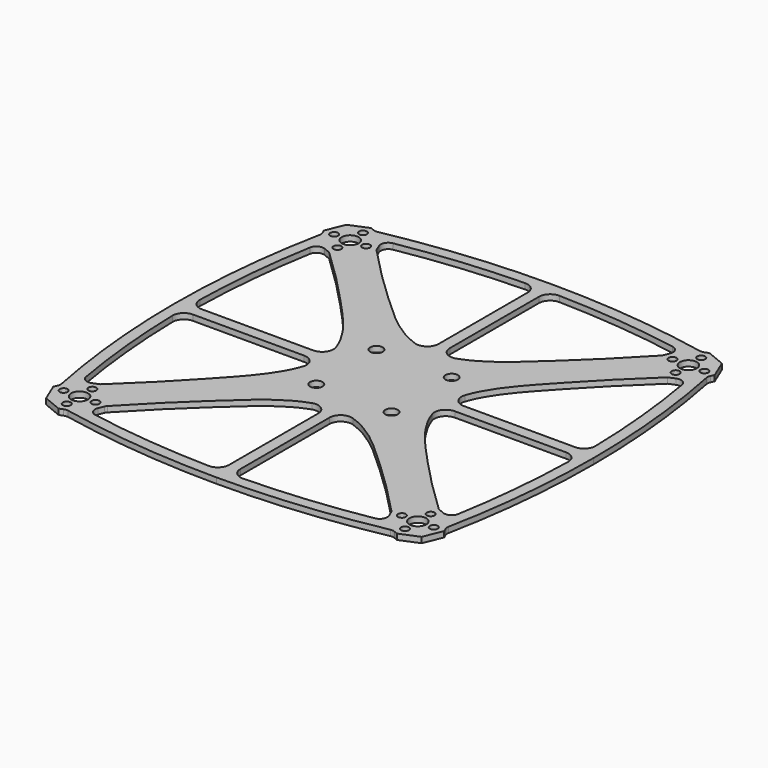
from build123d import *

# Parameters (mm, degrees)
F1_R     = 1.05
F1_R_2   = 2.25
F1_R_3   = 1.65
F2_DEPTH = 1.5


with BuildPart() as f2:
    # F1 (on Top) → F2 (new body)
    with BuildSketch(Plane.XY):
        with BuildLine():
            Line((51.5931862803, 44.0178648006), (52, 45))
            Line((52, 45), (49.9497474683, 49.9497474683))
            Line((49.9497474683, 49.9497474683), (45, 52))
            Line((45, 52), (44.0178648006, 51.5931862803))
            ThreePointArc((44.0178648006, 51.5931862803), (43.4487952644, 51.4506018175), (42.8628357923, 51.4792717196))
            ThreePointArc((42.8628357923, 51.4792717196), (21.5348352376, 54.6386607383), (0, 55.6951728897))
            ThreePointArc((0, 55.6951728897), (-21.5348352376, 54.6386607383), (-42.8628357923, 51.4792717196))
            ThreePointArc((-42.8628357923, 51.4792717196), (-43.4487952644, 51.4506018175), (-44.0178648006, 51.5931862803))
            Line((-44.0178648006, 51.5931862803), (-45, 52))
            Line((-45, 52), (-49.9497474683, 49.9497474683))
            Line((-49.9497474683, 49.9497474683), (-52, 45))
            Line((-52, 45), (-51.5931862803, 44.0178648006))
            ThreePointArc((-51.5931862803, 44.0178648006), (-51.4506018175, 43.4487952644), (-51.4792717196, 42.8628357923))
            ThreePointArc((-51.4792717196, 42.8628357923), (-54.6386607383, 21.5348352376), (-55.6951728897, 0))
            ThreePointArc((-55.6951728897, 0), (-54.6386607383, -21.5348352376), (-51.4792717196, -42.8628357923))
            ThreePointArc((-51.4792717196, -42.8628357923), (-51.4506018175, -43.4487952644), (-51.5931862803, -44.0178648006))
            Line((-51.5931862803, -44.0178648006), (-52, -45))
            Line((-52, -45), (-49.9497474683, -49.9497474683))
            Line((-49.9497474683, -49.9497474683), (-45, -52))
            Line((-45, -52), (-44.0178648006, -51.5931862803))
            ThreePointArc((-44.0178648006, -51.5931862803), (-43.4487952644, -51.4506018175), (-42.8628357923, -51.4792717196))
            ThreePointArc((-42.8628357923, -51.4792717196), (-21.5348352376, -54.6386607383), (0, -55.6951728897))
            ThreePointArc((0, -55.6951728897), (21.5348352376, -54.6386607383), (42.8628357923, -51.4792717196))
            ThreePointArc((42.8628357923, -51.4792717196), (43.4487952644, -51.4506018175), (44.0178648006, -51.5931862803))
            Line((44.0178648006, -51.5931862803), (45, -52))
            Line((45, -52), (49.9497474683, -49.9497474683))
            Line((49.9497474683, -49.9497474683), (52, -45))
            Line((52, -45), (51.5931862803, -44.0178648006))
            ThreePointArc((51.5931862803, -44.0178648006), (51.4506018175, -43.4487952644), (51.4792717196, -42.8628357923))
            ThreePointArc((51.4792717196, -42.8628357923), (54.6386607383, -21.5348352376), (55.6951728897, 0))
            ThreePointArc((55.6951728897, 0), (54.6386607383, 21.5348352376), (51.4792717196, 42.8628357923))
            ThreePointArc((51.4792717196, 42.8628357923), (51.4506018175, 43.4487952644), (51.5931862803, 44.0178648006))
        make_face()
        with Locations((-45, -49.25)):
            Circle(F1_R, mode=Mode.SUBTRACT)
        with Locations((-49.25, -45)):
            Circle(F1_R, mode=Mode.SUBTRACT)
        with Locations((-45, -45)):
            Circle(F1_R_2, mode=Mode.SUBTRACT)
        with Locations((-40.75, -45)):
            Circle(F1_R, mode=Mode.SUBTRACT)
        with Locations((-45, -40.75)):
            Circle(F1_R, mode=Mode.SUBTRACT)
        with BuildLine():
            add(Edge.make_bspline(
                [(-37.7501436414, -44.7334547058), (-30.9149768782, -37.4490160405), (-22.1028205581, -29.0955583152), (-10.986774474, -19.0602008315), (-5.4640145291, -17.186135228)],
                knots=[0.0061566979, 0.0061566979, 0.0061566979, 0.0061566979, 0.513007449, 0.8835682626, 0.8835682626, 0.8835682626, 0.8835682626], degree=3))
            ThreePointArc((-5.4640145291, -17.186135228), (-2.7524364943, -17.5885821528), (-1.5, -20.0270287472))
            Line((-1.5, -20.0270287472), (-1.5, -49.6478545742))
            ThreePointArc((-1.5, -49.6478545742), (-2.4011017576, -51.7913624861), (-4.5630841121, -52.6471912334))
            ThreePointArc((-4.5630841121, -52.6471912334), (-20.9503164586, -51.6814785674), (-37.2176574236, -49.479751323))
            ThreePointArc((-37.2176574236, -49.479751323), (-38.6270458842, -48.4732667207), (-38.7223966045, -46.7440196801))
            Line((-38.7223966045, -46.7440196801), (-38.139428394, -45.3366099198))
            ThreePointArc((-38.139428394, -45.3366099198), (-37.9720692337, -45.0174233463), (-37.7501436414, -44.7334547058))
        make_face(mode=Mode.SUBTRACT)
        with BuildLine():
            Line((-45, -38), (-46.7440196801, -38.7223966045))
            ThreePointArc((-46.7440196801, -38.7223966045), (-48.4732667207, -38.6270458842), (-49.479751323, -37.2176574236))
            ThreePointArc((-49.479751323, -37.2176574236), (-51.6814785674, -20.9503164586), (-52.6471912334, -4.5630841121))
            ThreePointArc((-52.6471912334, -4.5630841121), (-51.7913624861, -2.4011017576), (-49.6478545742, -1.5))
            Line((-49.6478545742, -1.5), (-20.0270287472, -1.5))
            ThreePointArc((-20.0270287472, -1.5), (-17.5885821528, -2.7524364943), (-17.186135228, -5.4640145291))
            add(Edge.make_bspline(
                [(-45, -38), (-37.5661637686, -31.038531254), (-29.1659752855, -22.1808205983), (-19.0602008315, -10.986774474), (-17.186135228, -5.4640145291)],
                knots=[0, 0, 0, 0, 0.513007449, 0.8835682626, 0.8835682626, 0.8835682626, 0.8835682626], degree=3))
        make_face(mode=Mode.SUBTRACT)
        with Locations((-10, -10)):
            Circle(F1_R_3, mode=Mode.SUBTRACT)
        with BuildLine():
            add(Edge.make_bspline(
                [(37.7501436414, -44.7334547058), (30.9149768782, -37.4490160405), (22.1028205581, -29.0955583152), (10.986774474, -19.0602008315), (5.4640145291, -17.186135228)],
                knots=[0.0061566979, 0.0061566979, 0.0061566979, 0.0061566979, 0.513007449, 0.8835682626, 0.8835682626, 0.8835682626, 0.8835682626], degree=3))
            ThreePointArc((37.7501436414, -44.7334547058), (37.9720692337, -45.0174233463), (38.139428394, -45.3366099198))
            Line((38.139428394, -45.3366099198), (38.7223966045, -46.7440196801))
            ThreePointArc((38.7223966045, -46.7440196801), (38.6270458842, -48.4732667207), (37.2176574236, -49.479751323))
            ThreePointArc((37.2176574236, -49.479751323), (20.9503164586, -51.6814785674), (4.5630841121, -52.6471912334))
            ThreePointArc((4.5630841121, -52.6471912334), (2.4011017576, -51.7913624861), (1.5, -49.6478545742))
            Line((1.5, -49.6478545742), (1.5, -20.0270287472))
            ThreePointArc((1.5, -20.0270287472), (2.7524364943, -17.5885821528), (5.4640145291, -17.186135228))
        make_face(mode=Mode.SUBTRACT)
        with Locations((40.75, -45)):
            Circle(F1_R, mode=Mode.SUBTRACT)
        with Locations((45, -49.25)):
            Circle(F1_R, mode=Mode.SUBTRACT)
        with Locations((45, -45)):
            Circle(F1_R_2, mode=Mode.SUBTRACT)
        with Locations((49.25, -45)):
            Circle(F1_R, mode=Mode.SUBTRACT)
        with Locations((45, -40.75)):
            Circle(F1_R, mode=Mode.SUBTRACT)
        with Locations((10, -10)):
            Circle(F1_R_3, mode=Mode.SUBTRACT)
        with BuildLine():
            add(Edge.make_bspline(
                [(45, -38), (37.5661637686, -31.038531254), (29.1659752855, -22.1808205983), (19.0602008315, -10.986774474), (17.186135228, -5.4640145291)],
                knots=[0, 0, 0, 0, 0.513007449, 0.8835682626, 0.8835682626, 0.8835682626, 0.8835682626], degree=3))
            ThreePointArc((17.186135228, -5.4640145291), (17.5885821528, -2.7524364943), (20.0270287472, -1.5))
            Line((20.0270287472, -1.5), (49.6478545742, -1.5))
            ThreePointArc((49.6478545742, -1.5), (51.7913624861, -2.4011017576), (52.6471912334, -4.5630841121))
            ThreePointArc((52.6471912334, -4.5630841121), (51.6814785674, -20.9503164586), (49.479751323, -37.2176574236))
            ThreePointArc((49.479751323, -37.2176574236), (48.4732667207, -38.6270458842), (46.7440196801, -38.7223966045))
            Line((46.7440196801, -38.7223966045), (45, -38))
        make_face(mode=Mode.SUBTRACT)
        with BuildLine():
            add(Edge.make_bspline(
                [(-45, 38), (-37.5661637686, 31.038531254), (-29.1659752855, 22.1808205983), (-19.0602008315, 10.986774474), (-17.186135228, 5.4640145291)],
                knots=[0, 0, 0, 0, 0.513007449, 0.8835682626, 0.8835682626, 0.8835682626, 0.8835682626], degree=3))
            ThreePointArc((-17.186135228, 5.4640145291), (-17.5885821528, 2.7524364943), (-20.0270287472, 1.5))
            Line((-20.0270287472, 1.5), (-49.6478545742, 1.5))
            ThreePointArc((-49.6478545742, 1.5), (-51.7913624861, 2.4011017576), (-52.6471912334, 4.5630841121))
            ThreePointArc((-52.6471912334, 4.5630841121), (-51.6814785674, 20.9503164586), (-49.479751323, 37.2176574236))
            ThreePointArc((-49.479751323, 37.2176574236), (-48.4732667207, 38.6270458842), (-46.7440196801, 38.7223966045))
            Line((-46.7440196801, 38.7223966045), (-45, 38))
        make_face(mode=Mode.SUBTRACT)
        with Locations((-10, 10)):
            Circle(F1_R_3, mode=Mode.SUBTRACT)
        with Locations((-45, 40.75)):
            Circle(F1_R, mode=Mode.SUBTRACT)
        with Locations((-49.25, 45)):
            Circle(F1_R, mode=Mode.SUBTRACT)
        with Locations((-45, 45)):
            Circle(F1_R_2, mode=Mode.SUBTRACT)
        with Locations((-45, 49.25)):
            Circle(F1_R, mode=Mode.SUBTRACT)
        with Locations((-40.75, 45)):
            Circle(F1_R, mode=Mode.SUBTRACT)
        with BuildLine():
            ThreePointArc((-1.5, 20.0270287472), (-2.7524364943, 17.5885821528), (-5.4640145291, 17.186135228))
            add(Edge.make_bspline(
                [(-37.7501436414, 44.7334547058), (-30.9149768782, 37.4490160405), (-22.1028205581, 29.0955583152), (-10.986774474, 19.0602008315), (-5.4640145291, 17.186135228)],
                knots=[0.0061566979, 0.0061566979, 0.0061566979, 0.0061566979, 0.513007449, 0.8835682626, 0.8835682626, 0.8835682626, 0.8835682626], degree=3))
            ThreePointArc((-37.7501436414, 44.7334547058), (-37.9720692337, 45.0174233463), (-38.139428394, 45.3366099198))
            Line((-38.139428394, 45.3366099198), (-38.7223966045, 46.7440196801))
            ThreePointArc((-38.7223966045, 46.7440196801), (-38.6270458842, 48.4732667207), (-37.2176574236, 49.479751323))
            ThreePointArc((-37.2176574236, 49.479751323), (-20.9503164586, 51.6814785674), (-4.5630841121, 52.6471912334))
            ThreePointArc((-4.5630841121, 52.6471912334), (-2.4011017576, 51.7913624861), (-1.5, 49.6478545742))
            Line((-1.5, 49.6478545742), (-1.5, 20.0270287472))
        make_face(mode=Mode.SUBTRACT)
        with Locations((10, 10)):
            Circle(F1_R_3, mode=Mode.SUBTRACT)
        with BuildLine():
            Line((45, 38), (46.7440196801, 38.7223966045))
            ThreePointArc((46.7440196801, 38.7223966045), (48.4732667207, 38.6270458842), (49.479751323, 37.2176574236))
            ThreePointArc((49.479751323, 37.2176574236), (51.6814785674, 20.9503164586), (52.6471912334, 4.5630841121))
            ThreePointArc((52.6471912334, 4.5630841121), (51.7913624861, 2.4011017576), (49.6478545742, 1.5))
            Line((49.6478545742, 1.5), (20.0270287472, 1.5))
            ThreePointArc((20.0270287472, 1.5), (17.5885821528, 2.7524364943), (17.186135228, 5.4640145291))
            add(Edge.make_bspline(
                [(45, 38), (37.5661637686, 31.038531254), (29.1659752855, 22.1808205983), (19.0602008315, 10.986774474), (17.186135228, 5.4640145291)],
                knots=[0, 0, 0, 0, 0.513007449, 0.8835682626, 0.8835682626, 0.8835682626, 0.8835682626], degree=3))
        make_face(mode=Mode.SUBTRACT)
        with BuildLine():
            Line((38.7223966045, 46.7440196801), (38.139428394, 45.3366099198))
            ThreePointArc((38.139428394, 45.3366099198), (37.9720692337, 45.0174233463), (37.7501436414, 44.7334547058))
            add(Edge.make_bspline(
                [(37.7501436414, 44.7334547058), (30.9149768782, 37.4490160405), (22.1028205581, 29.0955583152), (10.986774474, 19.0602008315), (5.4640145291, 17.186135228)],
                knots=[0.0061566979, 0.0061566979, 0.0061566979, 0.0061566979, 0.513007449, 0.8835682626, 0.8835682626, 0.8835682626, 0.8835682626], degree=3))
            ThreePointArc((5.4640145291, 17.186135228), (2.7524364943, 17.5885821528), (1.5, 20.0270287472))
            Line((1.5, 20.0270287472), (1.5, 49.6478545742))
            ThreePointArc((1.5, 49.6478545742), (2.4011017576, 51.7913624861), (4.5630841121, 52.6471912334))
            ThreePointArc((4.5630841121, 52.6471912334), (20.9503164586, 51.6814785674), (37.2176574236, 49.479751323))
            ThreePointArc((37.2176574236, 49.479751323), (38.6270458842, 48.4732667207), (38.7223966045, 46.7440196801))
        make_face(mode=Mode.SUBTRACT)
        with Locations((45, 40.75)):
            Circle(F1_R, mode=Mode.SUBTRACT)
        with Locations((40.75, 45)):
            Circle(F1_R, mode=Mode.SUBTRACT)
        with Locations((45, 45)):
            Circle(F1_R_2, mode=Mode.SUBTRACT)
        with Locations((49.25, 45)):
            Circle(F1_R, mode=Mode.SUBTRACT)
        with Locations((45, 49.25)):
            Circle(F1_R, mode=Mode.SUBTRACT)
    extrude(amount=F2_DEPTH)


solid = f2.part
